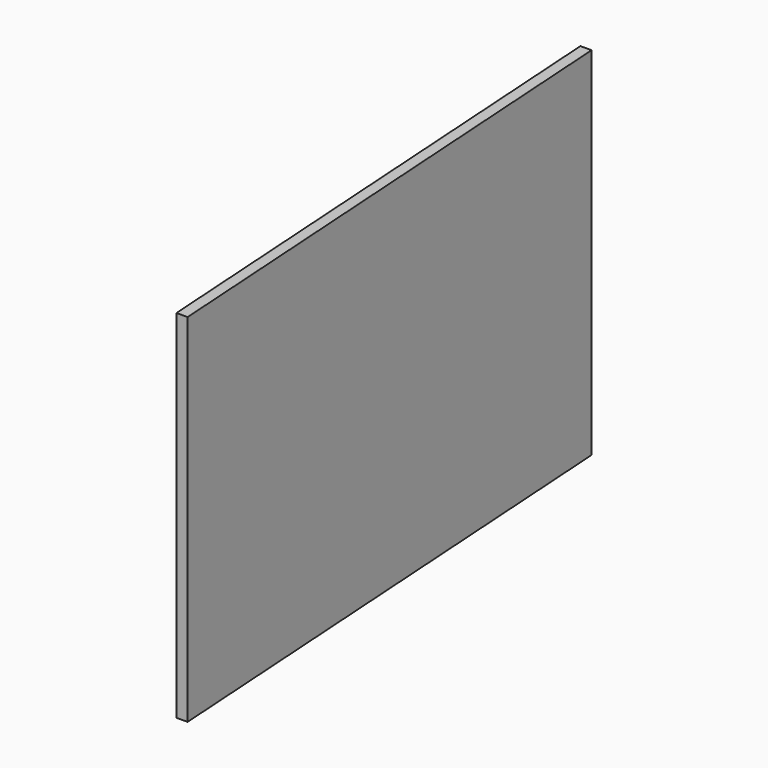
from build123d import *

# Parameters (mm, degrees)
F1_DEPTH = 9.525


with BuildPart() as f1:
    # F0 (on Right) → F1 (new body)
    with BuildSketch(Plane.YZ):
        Polygon((-603.97613, 222.654683), (-603.97613, -82.145317), (-172.17613, -56.745317), (-172.17613, 248.054683), align=None)
    extrude(amount=F1_DEPTH)


with BuildPart() as f2_1:
    # F2: copy of F1
    add(f1.part.moved(Location((482.6, 0, 0))))


solid = f1.part
